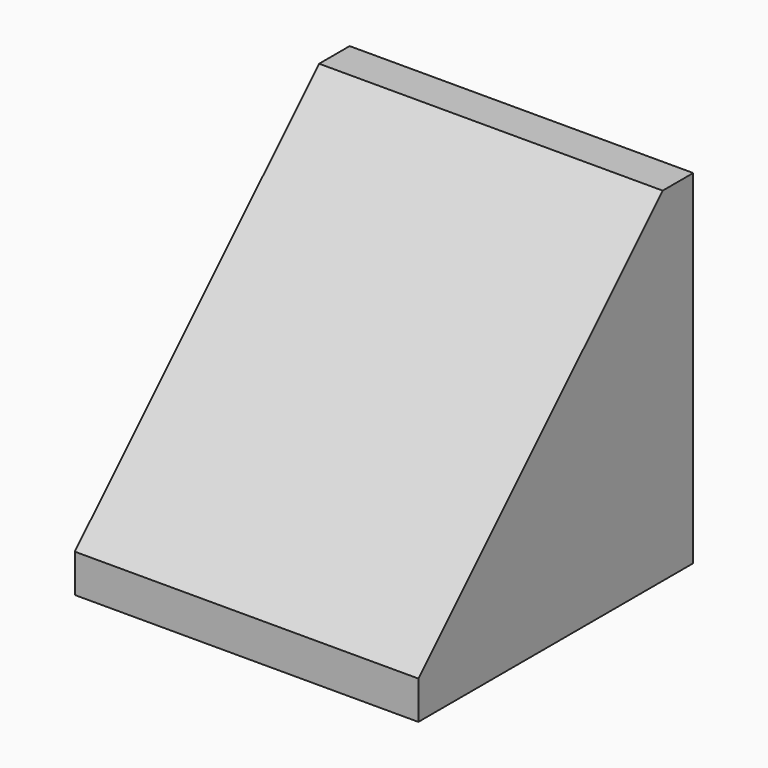
from build123d import *

# Parameters (mm, degrees)
SKETCH_W     = 18
SKETCH_H     = 18
PAD_DEPTH    = 18
CHAMFER_SIZE = 16


with BuildPart() as part:
    # Sketch → Pad (new body)
    with BuildSketch(Plane.XY):
        with Locations((9, 9)):
            Rectangle(SKETCH_W, SKETCH_H)
    extrude(amount=PAD_DEPTH)

    # Chamfer
    chamfer_edges = [part.edges().sort_by_distance(p)[0] for p in [
        (9, 0, 18),
    ]]
    chamfer(chamfer_edges, length=CHAMFER_SIZE)


solid = part.part
